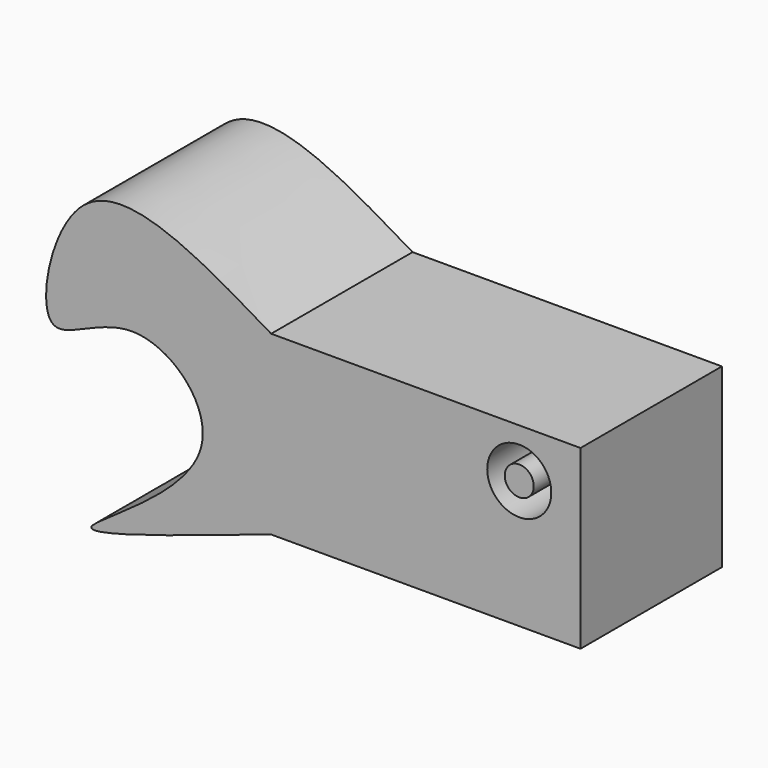
from build123d import *

# Parameters (mm, degrees)
F0_W     = 70
F0_H     = 40
F1_DEPTH = 40
F3_DEPTH = 40
F4_R     = 7.2472355799
F5_DEPTH = 110.5
F6_R     = 3.2836923738
F7_DEPTH = 40


with BuildPart() as f1:
    # F0 (on Front) → F1 (new body)
    with BuildSketch(Plane.XZ):
        with Locations((35, 20)):
            Rectangle(F0_W, F0_H)
    extrude(amount=F1_DEPTH)

    # F2 (on face) → F3 (join)
    with BuildSketch(Plane(origin=(0, 0, 0), x_dir=(-1, 0, 0), z_dir=(0, 1, 0))):
        with BuildLine():
            add(Edge.make_bspline(
                [(0, 40), (16.4000109054, 49.8029504665), (45.6189704307, 67.2683054933), (55.7288663538, 15.1187025805), (30.5387197793, 38.2227775428), (2.3878570655, 9.8485680422), (61.334591754, -20.6828145959), (21.166176394, -7.1375073925), (0, 0)],
                knots=[0, 0, 0, 0, 0.1987035882, 0.3540187951, 0.4838544539, 0.6303599159, 0.8052234037, 1, 1, 1, 1], degree=3))
            Line((0, 40), (0, 0))
        make_face()
    extrude(amount=-F3_DEPTH)

    # F4 (on face) → F5 (cut)
    with BuildSketch(Plane(origin=(0, 0, 0), x_dir=(-1, 0, 0), z_dir=(0, 1, 0))):
        with Locations((-56.1393387616, 28.9330910891)):
            Circle(F4_R)
    extrude(amount=-F5_DEPTH, mode=Mode.SUBTRACT)


with BuildPart() as f7:
    # F6 (on face) → F7 (new body)
    with BuildSketch(Plane(origin=(0, 0, 0), x_dir=(-1, 0, 0), z_dir=(0, 1, 0))):
        with Locations((-56.1393387616, 28.9330910891)):
            Circle(F6_R)
    extrude(amount=-F7_DEPTH)


solid = Compound([f1.part, f7.part])
